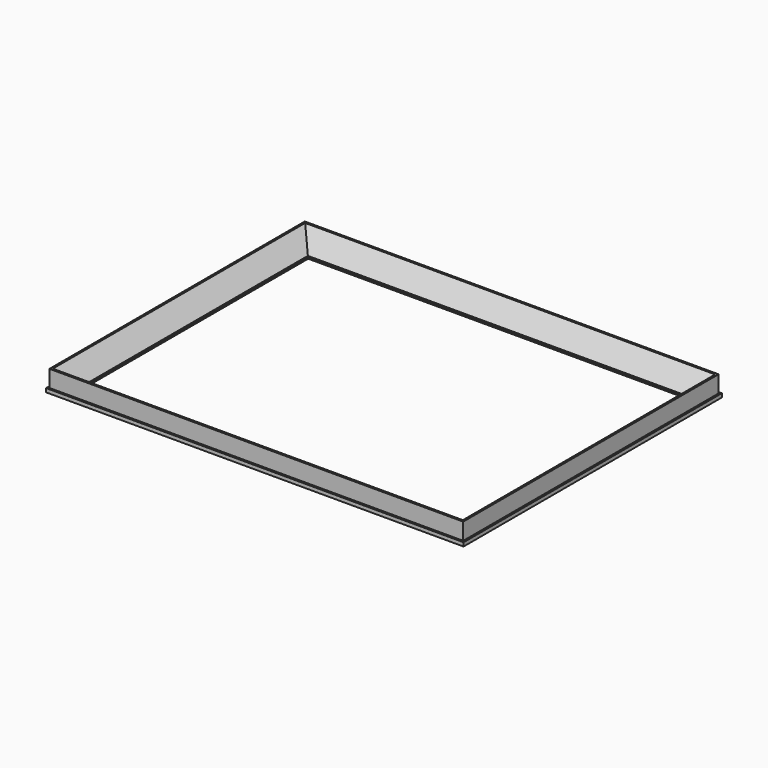
from build123d import *

# Parameters (mm, degrees)
SKETCH015_W       = 111.7
SKETCH015_H       = 86.4
PAD007_DEPTH      = 1
SKETCH016_W       = 110.7
SKETCH016_H       = 85.4
PAD008_DEPTH      = 5.5
PAD005_DEPTH      = 55.85
PAD005_DEPTH_BACK = 55.85
PAD004_DEPTH      = 43.2
PAD004_DEPTH_BACK = 43.2


with BuildPart() as pad_bezel_lip:
    # Sketch015 → Pad007 (new body)
    with BuildSketch(Plane.XY):
        Rectangle(SKETCH015_W, SKETCH015_H)
    extrude(amount=-PAD007_DEPTH)


with BuildPart() as fusion_bezel_overlap:
    # Sketch016 → Pad008 (new body)
    with BuildSketch(Plane.XY):
        Rectangle(SKETCH016_W, SKETCH016_H)
    extrude(amount=PAD008_DEPTH)

    # Fusion002: union Pad (bezel lip)
    add(pad_bezel_lip.part)


with BuildPart() as pad_bezel_top_bottom:
    # Sketch006 → Pad005 (new body, two sides)
    with BuildSketch(Plane.YZ) as pad005_sk:
        Polygon((43.2, -1), (38.2, -1), (38.2, -0.6), (38.6, -0.6), (42.2, 4.5), (42.7, 4.5), (42.7, 0), (43.2, 0), align=None)
        Polygon((-38.6, -0.6), (-42.2, 4.5), (-42.7, 4.5), (-42.7, 0), (-43.2, 0), (-43.2, -1), (-38.2, -1), (-38.2, -0.6), align=None)
    extrude(amount=PAD005_DEPTH)
    extrude(pad005_sk.sketch, amount=-PAD005_DEPTH_BACK)


with BuildPart() as common:
    # Sketch005 → Pad004 (new body, two sides)
    with BuildSketch(Plane.XZ) as pad004_sk:
        Polygon((-55.85, -1), (-50.85, -1), (-50.85, -0.6), (-51.25, -0.6), (-54.85, 4.5), (-55.35, 4.5), (-55.35, 0), (-55.85, 0), align=None)
        Polygon((50.85, -1), (55.85, -1), (55.85, 0), (55.35, 0), (55.35, 4.5), (54.85, 4.5), (51.25, -0.6), (50.85, -0.6), align=None)
    extrude(amount=PAD004_DEPTH)
    extrude(pad004_sk.sketch, amount=-PAD004_DEPTH_BACK)

    # Fusion: union Pad (bezel top/bottom)
    add(pad_bezel_top_bottom.part)

    # Common: intersect Fusion (bezel overlap)
    add(fusion_bezel_overlap.part, mode=Mode.INTERSECT)


with BuildPart() as common_1:
    # Common placement: moved
    add(common.part.moved(Location((0, 11, 0))))


solid = common_1.part
